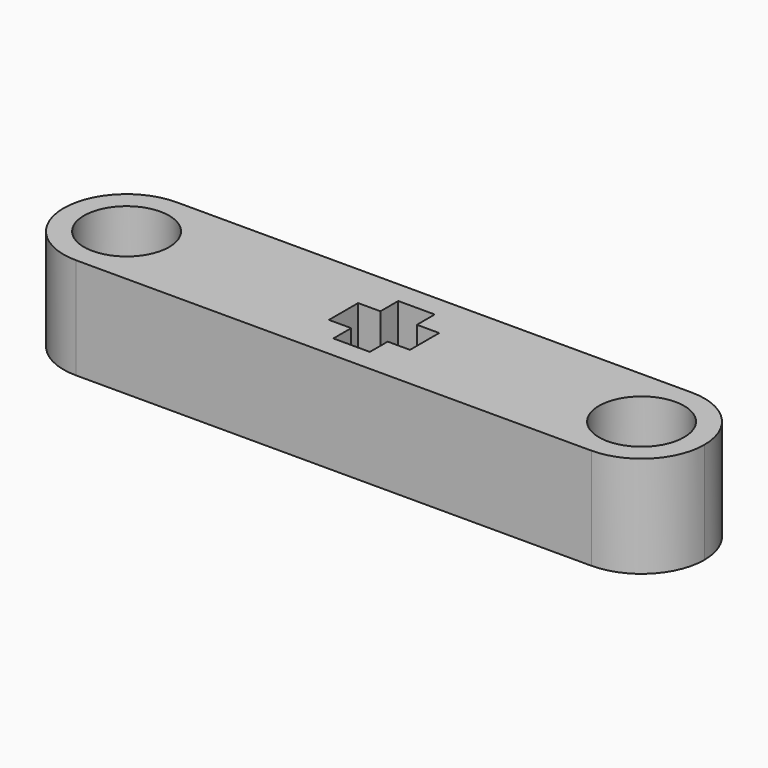
from build123d import *

# Parameters (mm, degrees)
F0_R     = 2.667
F1_DEPTH = 6.35


with BuildPart() as f1:
    # F0 (on Top) → F1 (new body)
    with BuildSketch(Plane.XY):
        with BuildLine():
            Line((-16.1417, -3.937), (16.129, -3.937))
            ThreePointArc((16.129, -3.937), (18.912879, -2.783879), (20.066, 0))
            ThreePointArc((20.066, 0), (18.912879, 2.783879), (16.129, 3.937))
            Line((16.129, 3.937), (-16.1417, 3.937))
            ThreePointArc((-16.1417, 3.937), (-18.916599, 2.787599), (-20.066, 0.0127))
            Line((-20.066, 0.0127), (-20.066, -0.0127))
            ThreePointArc((-20.066, -0.0127), (-18.916599, -2.787599), (-16.1417, -3.937))
        make_face()
        with Locations((-16.129, 0)):
            Circle(F0_R, mode=Mode.SUBTRACT)
        Polygon((-1.143, 2.54), (0, 2.54), (1.143, 2.54), (1.143, 1.143), (2.54, 1.143), (2.54, 0), (2.54, -1.143), (1.143, -1.143), (1.143, -2.54), (0, -2.54), (-1.143, -2.54), (-1.143, -1.143), (-2.54, -1.143), (-2.54, 0), (-2.54, 1.143), (-1.143, 1.143), align=None, mode=Mode.SUBTRACT)
        with Locations((16.129, 0)):
            Circle(F0_R, mode=Mode.SUBTRACT)
    extrude(amount=F1_DEPTH)


solid = f1.part
